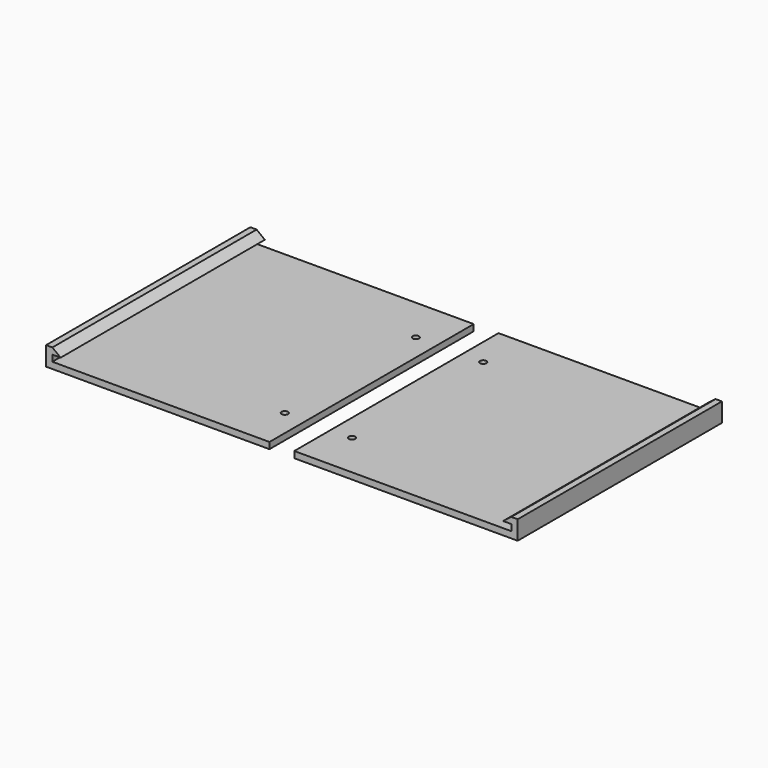
from build123d import *

# Parameters (mm, degrees)
F0_W      = 105
F0_H      = 120
F1_DEPTH  = 3
F2_R      = 1.5
F3_DEPTH  = 3
F5_DEPTH  = 120
F6_W      = 105
F6_H      = 120
F8_DEPTH  = 3
F7_R      = 1.5
F9_DEPTH  = 3
F11_DEPTH = 120


with BuildPart() as f1:
    # F0 (on Top) → F1 (new body)
    with BuildSketch(Plane.XY):
        with Locations((-30.977487, -17.948309)):
            Rectangle(F0_W, F0_H)
    extrude(amount=F1_DEPTH)

    # F2 (on face) → F3 (cut, through all)
    with BuildSketch(Plane.XY.offset(3)):
        with Locations((11.522513, 20.551691)):
            Circle(F2_R)
        with Locations((11.522513, -56.448309)):
            Circle(F2_R)
    extrude(amount=-F3_DEPTH, mode=Mode.SUBTRACT)

    # F4 (on face) → F5 (join, through all)
    with BuildSketch(Plane.XZ.offset(77.948309)):
        Polygon((-83.477487, 8.927221), (-83.477487, 3), (-80.523066, 3), (-80.523066, 5.963611), (-76.639466, 5.963611), (-80.523066, 8.927221), align=None)
    extrude(amount=-F5_DEPTH)


with BuildPart() as f8:
    # F6 (on Top) → F8 (new body)
    with BuildSketch(Plane.XY):
        with Locations((85.621953, -17.873387)):
            Rectangle(F6_W, F6_H)
    extrude(amount=F8_DEPTH)

    # F7 (on face) → F9 (cut, through all)
    with BuildSketch(Plane.XY):
        with Locations((43.121953, 20.626613)):
            Circle(F7_R)
        with Locations((43.121953, -56.373387)):
            Circle(F7_R)
    extrude(amount=F9_DEPTH, mode=Mode.SUBTRACT)

    # F10 (on face) → F11 (join, through all)
    with BuildSketch(Plane.XZ.offset(77.873387)):
        Polygon((135.142416, 3), (138.121953, 3), (138.121953, 8.898546), (135.142416, 8.898546), (131.297857, 5.949273), (135.142416, 5.949273), align=None)
    extrude(amount=-F11_DEPTH)


solid = Compound([f1.part, f8.part])
